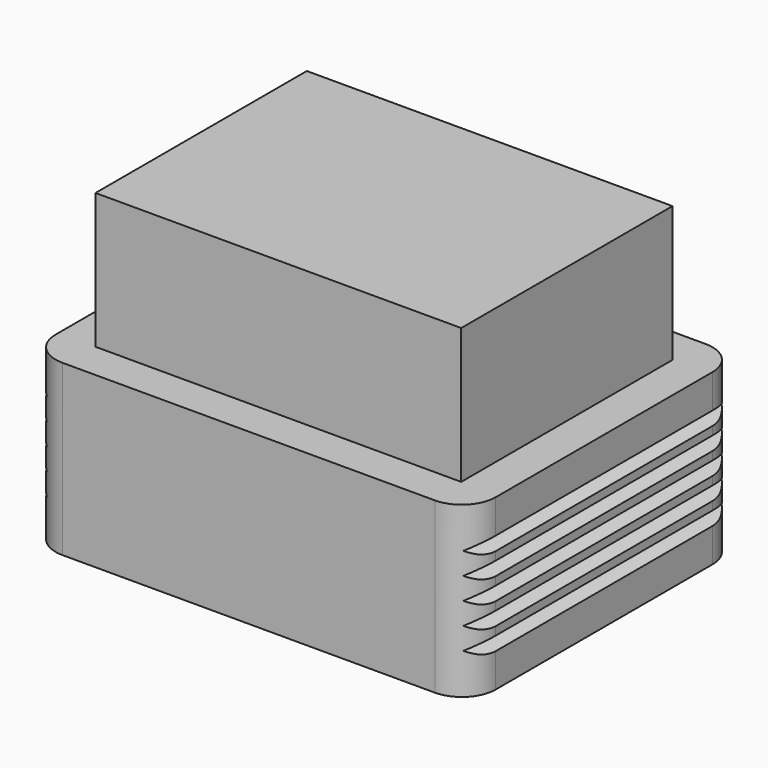
from build123d import *

# Parameters (mm, degrees)
F0_W     = 26
F0_H     = 20
F0_W_2   = 21.6
F0_H_2   = 15.6
F1_DEPTH = 10
F2_DEPTH = 18
F3_R     = 2
F5_DEPTH = 20


with BuildPart() as f1:
    # F0 (on Top) → F1 (new body)
    with BuildSketch(Plane.XY):
        with Locations((13, 10)):
            Rectangle(F0_W, F0_H)
        with Locations((13, 10)):
            Rectangle(F0_W_2, F0_H_2, mode=Mode.SUBTRACT)
    extrude(amount=F1_DEPTH)

    # F0 (on Top) → F2 (join)
    with BuildSketch(Plane.XY):
        with Locations((13, 10)):
            Rectangle(F0_W_2, F0_H_2)
    extrude(amount=F2_DEPTH)

    # F3
    f3_edges = [f1.edges().sort_by_distance(p)[0] for p in [
        (26, 0, 5),
        (26, 20, 5),
        (0, 20, 5),
        (0, 0, 5),
    ]]
    fillet(f3_edges, radius=F3_R)

    # F4 (on face) → F5 (cut, through all)
    with BuildSketch(Plane.XZ):
        Polygon((26, 1.9958548116), (26, 2.8041451884), (25.3, 2.4), align=None)
        Polygon((26, 3.2958548116), (26, 4.1041451884), (25.3, 3.7), align=None)
        Polygon((26.35, 3.0062177826), (26, 2.8041451884), (26, 1.9958548116), (26.35, 1.7937822174), align=None)
        Polygon((26.35, 4.3062177826), (26, 4.1041451884), (26, 3.2958548116), (26.35, 3.0937822174), align=None)
        Polygon((26.35, 5.6062177826), (26, 5.4041451884), (26, 4.5958548116), (26.35, 4.3937822174), align=None)
        Polygon((26, 4.5958548116), (26, 5.4041451884), (25.3, 5), align=None)
        Polygon((26.35, 6.9062177826), (26, 6.7041451884), (26, 5.8958548116), (26.35, 5.6937822174), align=None)
        Polygon((26, 5.8958548116), (26, 6.7041451884), (25.3, 6.3), align=None)
        Polygon((26, 7.1958548116), (26, 8.0041451884), (25.3, 7.6), align=None)
        Polygon((26.35, 8.2062177826), (26, 8.0041451884), (26, 7.1958548116), (26.35, 6.9937822174), align=None)
        Polygon((0, 8.0041451884), (0, 7.1958548116), (0.7, 7.6), align=None)
        Polygon((0, 6.7041451884), (0, 5.8958548116), (0.7, 6.3), align=None)
        Polygon((0, 5.4041451884), (0, 4.5958548116), (0.7, 5), align=None)
        Polygon((0, 4.1041451884), (0, 3.2958548116), (0.7, 3.7), align=None)
        Polygon((-0.35, 6.9937822174), (0, 7.1958548116), (0, 8.0041451884), (-0.35, 8.2062177826), align=None)
        Polygon((-0.35, 5.6937822174), (0, 5.8958548116), (0, 6.7041451884), (-0.35, 6.9062177826), align=None)
        Polygon((0, 2.8041451884), (0, 1.9958548116), (0.7, 2.4), align=None)
        Polygon((-0.35, 4.3937822174), (0, 4.5958548116), (0, 5.4041451884), (-0.35, 5.6062177826), align=None)
        Polygon((-0.35, 3.0937822174), (0, 3.2958548116), (0, 4.1041451884), (-0.35, 4.3062177826), align=None)
        Polygon((-0.35, 1.7937822174), (0, 1.9958548116), (0, 2.8041451884), (-0.35, 3.0062177826), align=None)
    extrude(amount=-F5_DEPTH, mode=Mode.SUBTRACT)


solid = f1.part
